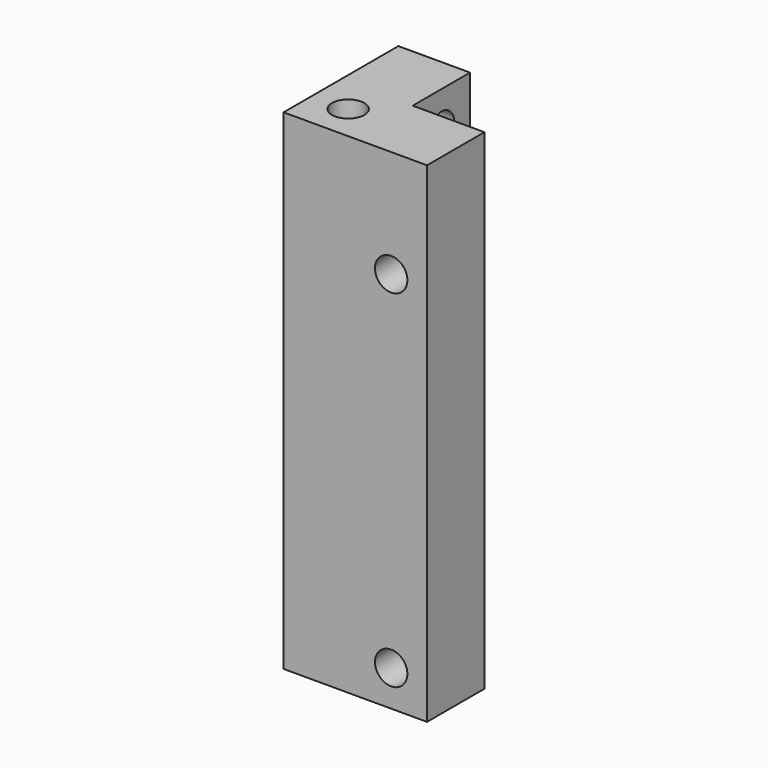
from build123d import *

# Parameters (mm, degrees)
F0_R     = 2.15265
F1_DEPTH = 65.0875
F2_R     = 2.15265
F3_DEPTH = 9.525
F4_R     = 2.15265
F5_DEPTH = 9.525


with BuildPart() as f1:
    # F0 (on Top) → F1 (new body)
    with BuildSketch(Plane.XY):
        Polygon((0, 19.05), (0, 0), (19.05, 0), (19.05, 9.525), (9.525, 9.525), (9.525, 19.05), align=None)
        with Locations((4.7625, 4.7625)):
            Circle(F0_R, mode=Mode.SUBTRACT)
    extrude(amount=F1_DEPTH)

    # F2 (on face) → F3 (cut, through all)
    with BuildSketch(Plane.YZ.offset(9.525)):
        with Locations((14.2875, 60.325)):
            Circle(F2_R)
        with Locations((14.2875, 14.2875)):
            Circle(F2_R)
    extrude(amount=-F3_DEPTH, mode=Mode.SUBTRACT)

    # F4 (on face) → F5 (cut, through all)
    with BuildSketch(Plane(origin=(0, 9.525, 0), x_dir=(-1, 0, 0), z_dir=(0, 1, 0))):
        with Locations((-14.2875, 50.8)):
            Circle(F4_R)
        with Locations((-14.2875, 4.7625)):
            Circle(F4_R)
    extrude(amount=-F5_DEPTH, mode=Mode.SUBTRACT)


solid = f1.part
